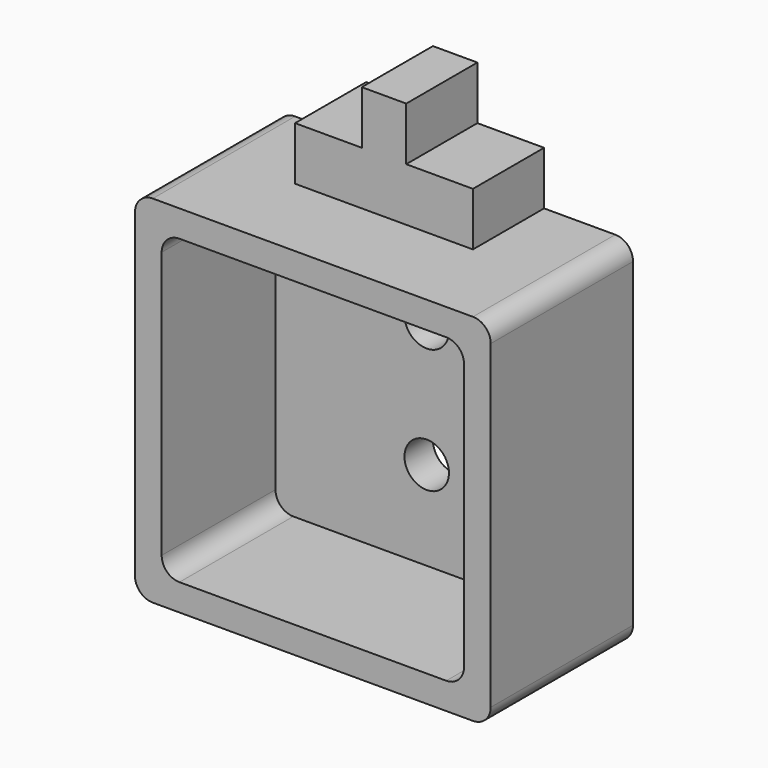
from build123d import *

# Parameters (mm, degrees)
F0_W     = 2.5
F0_H     = 3
F1_DEPTH = 5
F0_R     = 1.25
F2_DEPTH = 2
F3_DEPTH = 10
F0_W_2   = 3.75
F4_DEPTH = 5


with BuildPart() as f1:
    # F0 (on Front) → F1 (new body)
    with BuildSketch(Plane.XZ):
        with Locations((0, 14.5)):
            Rectangle(F0_W, F0_H)
    extrude(amount=F1_DEPTH)



with BuildPart() as f2:
    # F0 (on Front) → F2 (new body)
    with BuildSketch(Plane.XZ):
        with BuildLine():
            Line((-7.5, -8.5), (7.5, -8.5))
            ThreePointArc((7.5, -8.5), (8.2071067812, -8.2071067812), (8.5, -7.5))
            Line((8.5, -7.5), (8.5, 7.5))
            ThreePointArc((8.5, 7.5), (8.2071067812, 8.2071067812), (7.5, 8.5))
            Line((7.5, 8.5), (-7.5, 8.5))
            ThreePointArc((-7.5, 8.5), (-8.2071067812, 8.2071067812), (-8.5, 7.5))
            Line((-8.5, 7.5), (-8.5, -7.5))
            ThreePointArc((-8.5, -7.5), (-8.2071067812, -8.2071067812), (-7.5, -8.5))
        make_face()
        with Locations((0, -3.5)):
            Circle(F0_R, mode=Mode.SUBTRACT)
        with Locations((0, 3.5)):
            Circle(F0_R, mode=Mode.SUBTRACT)
    extrude(amount=F2_DEPTH)

    # F0 (on Front) → F3 (join)
    with BuildSketch(Plane.XZ):
        with BuildLine():
            Line((5, 10), (1.25, 10))
            Line((1.25, 10), (-1.25, 10))
            Line((-1.25, 10), (-5, 10))
            Line((-5, 10), (-9, 10))
            ThreePointArc((-9, 10), (-9.7071067812, 9.7071067812), (-10, 9))
            Line((-10, 9), (-10, -9))
            ThreePointArc((-10, -9), (-9.7071067812, -9.7071067812), (-9, -10))
            Line((-9, -10), (9, -10))
            ThreePointArc((9, -10), (9.7071067812, -9.7071067812), (10, -9))
            Line((10, -9), (10, 9))
            ThreePointArc((10, 9), (9.7071067812, 9.7071067812), (9, 10))
            Line((9, 10), (5, 10))
        make_face()
        with BuildLine():
            ThreePointArc((8.5, -7.5), (8.2071067812, -8.2071067812), (7.5, -8.5))
            Line((7.5, -8.5), (-7.5, -8.5))
            ThreePointArc((-7.5, -8.5), (-8.2071067812, -8.2071067812), (-8.5, -7.5))
            Line((-8.5, -7.5), (-8.5, 7.5))
            ThreePointArc((-8.5, 7.5), (-8.2071067812, 8.2071067812), (-7.5, 8.5))
            Line((-7.5, 8.5), (7.5, 8.5))
            ThreePointArc((7.5, 8.5), (8.2071067812, 8.2071067812), (8.5, 7.5))
            Line((8.5, 7.5), (8.5, -7.5))
        make_face(mode=Mode.SUBTRACT)
    extrude(amount=F3_DEPTH)


with BuildPart() as f1_1:
    add(f1.part)

    add(f2.part)  # F4 merges F2
    # F0 (on Front) → F4 (join)
    with BuildSketch(Plane.XZ):
        with Locations((-3.125, 11.5)):
            Rectangle(F0_W_2, F0_H)
        with Locations((0, 11.5)):
            Rectangle(F0_W, F0_H)
        with Locations((3.125, 11.5)):
            Rectangle(F0_W_2, F0_H)
    extrude(amount=F4_DEPTH)


solid = f1_1.part
